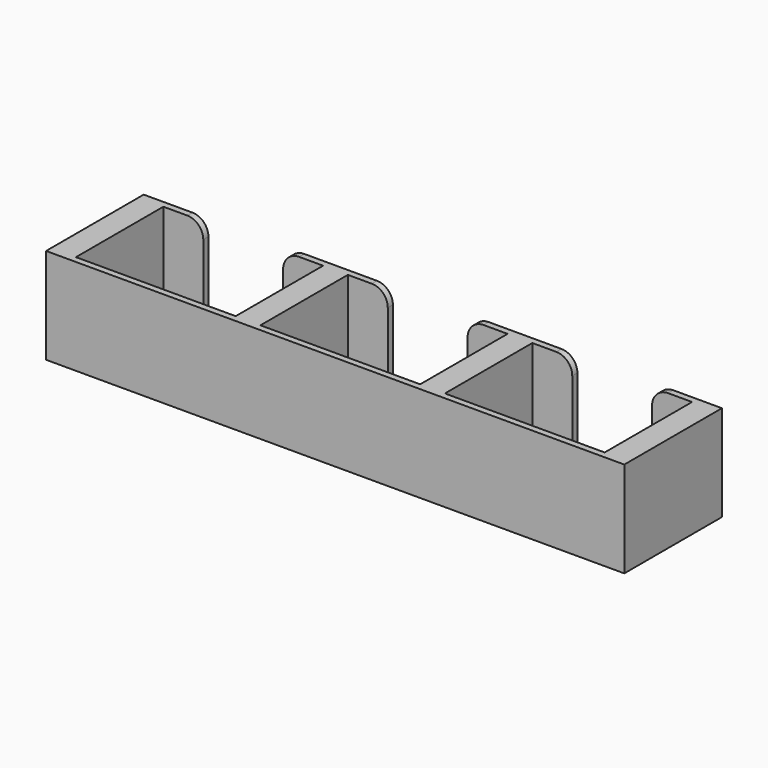
from build123d import *

# Parameters (mm, degrees)
F0_W     = 25
F0_H     = 2
F0_W_2   = 7.75
F0_H_2   = 34.2
F1_DEPTH = 30
F0_W_3   = 12.5
F2_DEPTH = 2.4
F3_R     = 5


with BuildPart() as f1:
    # F0 (on Top) → F1 (new body)
    with BuildSketch(Plane.XY):
        Polygon((-90.5, -19.1), (-70.25, -19.1), (-70.25, -17.1), (-82.75, -17.1), (-82.75, 17.1), (-70.25, 17.1), (-70.25, 19.1), (-90.5, 19.1), align=None)
        with Locations((-57.75, -18.1)):
            Rectangle(F0_W, F0_H)
        Polygon((-45.25, -19.1), (-12.5, -19.1), (-12.5, -17.1), (-25, -17.1), (-32.75, -17.1), (-45.25, -17.1), align=None)
        Polygon((-12.5, 17.1), (-12.5, 19.1), (-45.25, 19.1), (-45.25, 17.1), (-32.75, 17.1), (-25, 17.1), align=None)
        with Locations((0, -18.1)):
            Rectangle(F0_W, F0_H)
        Polygon((12.5, -19.1), (45.25, -19.1), (45.25, -17.1), (32.75, -17.1), (25, -17.1), (12.5, -17.1), align=None)
        with Locations((57.75, -18.1)):
            Rectangle(F0_W, F0_H)
        Polygon((70.25, -19.1), (90.5, -19.1), (90.5, 19.1), (70.25, 19.1), (70.25, 17.1), (82.75, 17.1), (82.75, -17.1), (70.25, -17.1), align=None)
        Polygon((45.25, 17.1), (45.25, 19.1), (12.5, 19.1), (12.5, 17.1), (25, 17.1), (32.75, 17.1), align=None)
        with Locations((28.875, 0)):
            Rectangle(F0_W_2, F0_H_2)
        with Locations((-28.875, 0)):
            Rectangle(F0_W_2, F0_H_2)
    extrude(amount=F1_DEPTH)

    # F0 (on Top) → F2 (join)
    with BuildSketch(Plane.XY):
        with Locations((-57.75, 18.1)):
            Rectangle(F0_W, F0_H)
        with Locations((-76.5, 0)):
            Rectangle(F0_W_3, F0_H_2)
        with Locations((-57.75, 0)):
            Rectangle(F0_W, F0_H_2)
        with Locations((-39, 0)):
            Rectangle(F0_W_3, F0_H_2)
        with Locations((-18.75, 0)):
            Rectangle(F0_W_3, F0_H_2)
        Rectangle(F0_W, F0_H_2)
        with Locations((0, 18.1)):
            Rectangle(F0_W, F0_H)
        with Locations((18.75, 0)):
            Rectangle(F0_W_3, F0_H_2)
        with Locations((39, 0)):
            Rectangle(F0_W_3, F0_H_2)
        with Locations((57.75, 0)):
            Rectangle(F0_W, F0_H_2)
        with Locations((57.75, 18.1)):
            Rectangle(F0_W, F0_H)
        with Locations((76.5, 0)):
            Rectangle(F0_W_3, F0_H_2)
    extrude(amount=F2_DEPTH)

    # F3
    f3_edges = [f1.edges().sort_by_distance(p)[0] for p in [
        (-70.25, 18.1, 30),
        (-45.25, 18.1, 30),
        (-12.5, 18.1, 30),
        (12.5, 18.1, 30),
        (45.25, 18.1, 30),
        (70.25, 18.1, 30),
    ]]
    fillet(f3_edges, radius=F3_R)


solid = f1.part
